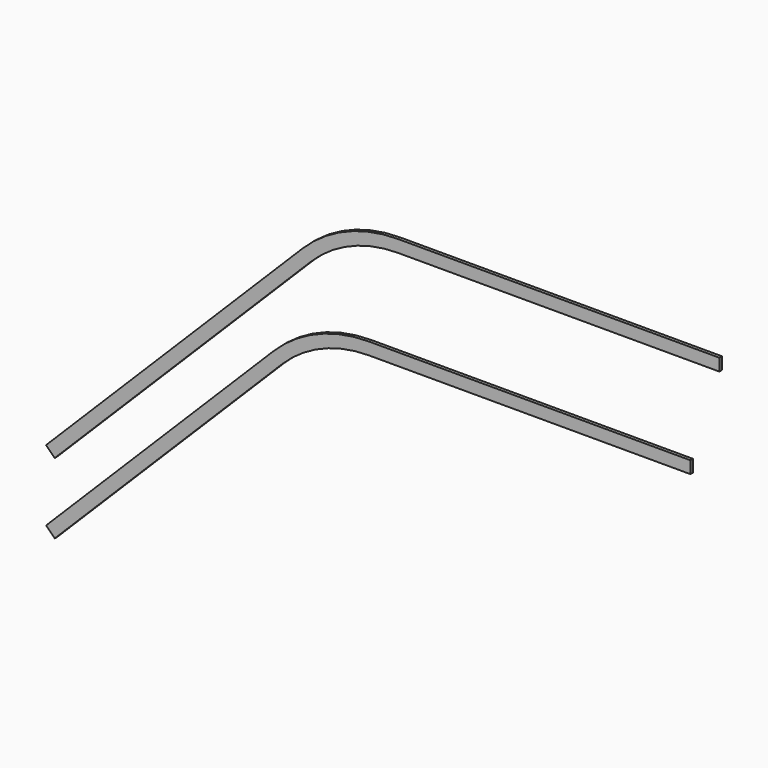
from build123d import *

# Parameters (mm, degrees)
F1_DEPTH = 10
F0_W     = 1000
F0_H     = 3.5


with BuildPart() as f1:
    # F0 (on Front) → F1 (new body)
    with BuildSketch(Plane.XZ):
        with BuildLine():
            Line((786.1466260782, 1028.0669362949), (696.1466260782, 938.0669362949))
            Line((696.1466260782, 938.0669362949), (-10.9601551084, 230.9601551084))
            Line((-10.9601551084, 230.9601551084), (0, 220))
            Line((0, 220), (13.4350288425, 206.5649711575))
            Line((13.4350288425, 206.5649711575), (810.5418100291, 1003.671752344))
            ThreePointArc((810.5418100291, 1003.671752344), (934.1471059301, 1086.2621705987), (1079.9494936612, 1115.2640687119))
            Line((1079.9494936612, 1115.2640687119), (2079.9494936612, 1115.2640687119))
            Line((2079.9494936612, 1115.2640687119), (2079.9494936612, 1134.2640687119))
            Line((2079.9494936612, 1134.2640687119), (2079.9494936612, 1149.7640686668))
            Line((2079.9494936612, 1149.7640686668), (1079.9433686799, 1149.7640686668))
            ThreePointArc((1079.9433686799, 1149.7640686668), (920.9416981454, 1118.1348424955), (786.1466260782, 1028.0669362949))
        make_face()
        Polygon((-10.9601551084, 230.9601551084), (696.1466260782, 938.0669362949), (693.671752344, 940.5418100291), (-13.4350288425, 233.4350288425), align=None)
        with BuildLine():
            Line((783.671752344, 1030.5418100291), (786.1466260782, 1028.0669362949))
            ThreePointArc((786.1466260782, 1028.0669362949), (920.9416981454, 1118.1348424955), (1079.9433686799, 1149.7640686668))
            Line((1079.9433686799, 1149.7640686668), (2079.9494936612, 1149.7640686668))
            Line((2079.9494936612, 1149.7640686668), (2079.9494936612, 1153.2640687119))
            Line((2079.9494936612, 1153.2640687119), (1079.9494936612, 1153.2640687119))
            ThreePointArc((1079.9494936612, 1153.2640687119), (1079.9464311705, 1153.2640687007), (1079.9433686799, 1153.2640686672))
            ThreePointArc((1079.9433686799, 1153.2640686672), (919.6023061321, 1121.3684208594), (783.671752344, 1030.5418100291))
        make_face()
        Polygon((693.671752344, 940.5418100291), (696.1466260782, 938.0669362949), (786.1466260782, 1028.0669362949), (783.671752344, 1030.5418100291), align=None)
    extrude(amount=F1_DEPTH)


with BuildPart() as f1b:
    # F0 (on Front) → F1, piece 2 (new body)
    with BuildSketch(Plane.XZ):
        with BuildLine():
            Line((-10.9601551084, 10.9601551084), (0, 0))
            Line((0, 0), (13.4350288425, -13.4350288425))
            Line((13.4350288425, -13.4350288425), (720.5418100291, 693.671752344))
            ThreePointArc((720.5418100291, 693.671752344), (844.1471059301, 776.2621705987), (989.9494936612, 805.2640687119))
            Line((989.9494936612, 805.2640687119), (1989.9494936612, 805.2640687119))
            Line((1989.9494936612, 805.2640687119), (1989.9494936612, 824.2640687119))
            Line((1989.9494936612, 824.2640687119), (1989.9494936612, 839.7640687119))
            Line((1989.9494936612, 839.7640687119), (989.9494936612, 839.7640687119))
            ThreePointArc((989.9494936612, 839.7640687119), (830.9445275135, 808.1360144704), (696.1466260782, 718.0669362949))
            Line((696.1466260782, 718.0669362949), (-10.9601551084, 10.9601551084))
        make_face()
        Polygon((-13.4350288425, 13.4350288425), (-10.9601551084, 10.9601551084), (696.1466260782, 718.0669362949), (693.671752344, 720.5418100291), align=None)
        with Locations((1489.9494936612, 841.5140687119)):
            Rectangle(F0_W, F0_H)
        with BuildLine():
            Line((693.671752344, 720.5418100291), (696.1466260782, 718.0669362949))
            ThreePointArc((696.1466260782, 718.0669362949), (830.9445275135, 808.1360144704), (989.9494936612, 839.7640687119))
            Line((989.9494936612, 839.7640687119), (989.9494936612, 843.2640687119))
            ThreePointArc((989.9494936612, 843.2640687119), (829.6051355002, 811.3695928342), (693.671752344, 720.5418100291))
        make_face()
    extrude(amount=F1_DEPTH)


solid = Compound([f1.part, f1b.part])
